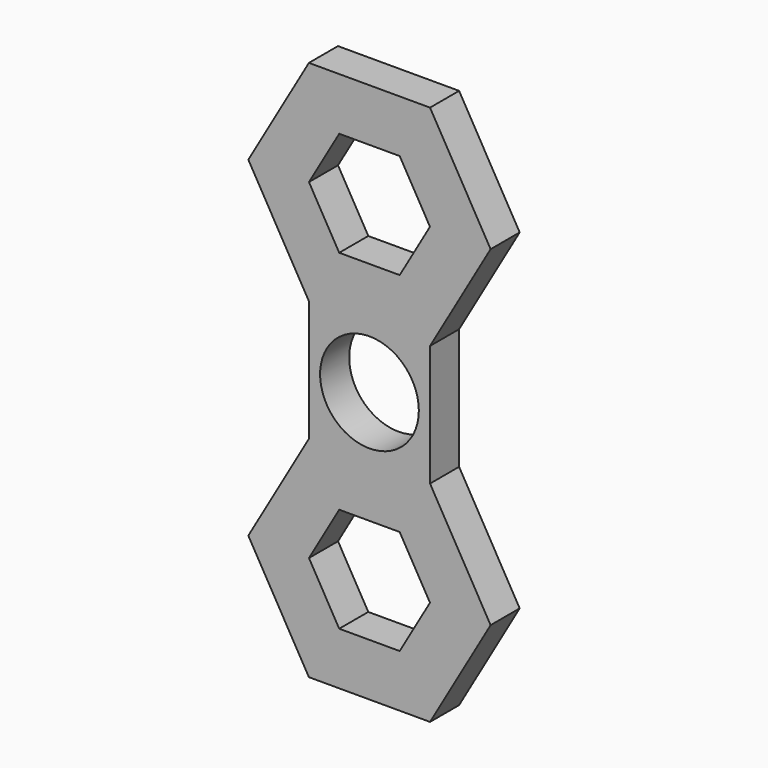
from build123d import *

# Parameters (mm, degrees)
F0_W     = 20
F0_H     = 20
F0_R     = 8.15
F1_DEPTH = 6


with BuildPart() as f1:
    # F0 (on Front) → F1 (new body)
    with BuildSketch(Plane.XZ):
        Polygon((-10, 10), (10, 10), (20, 27.320508), (10, 44.641016), (-10, 44.641016), (-20, 27.320508), align=None)
        Polygon((4.99408, 35.970508), (9.98816, 27.320508), (4.99408, 18.670508), (-4.99408, 18.670508), (-9.98816, 27.320508), (-4.99408, 35.970508), align=None, mode=Mode.SUBTRACT)
        Rectangle(F0_W, F0_H)
        Circle(F0_R, mode=Mode.SUBTRACT)
        Polygon((20, -27.320508), (10, -10), (-10, -10), (-20, -27.320508), (-10, -44.641016), (10, -44.641016), align=None)
        Polygon((4.99408, -35.970508), (-4.99408, -35.970508), (-9.98816, -27.320508), (-4.99408, -18.670508), (4.99408, -18.670508), (9.98816, -27.320508), align=None, mode=Mode.SUBTRACT)
    extrude(amount=F1_DEPTH)


solid = f1.part
